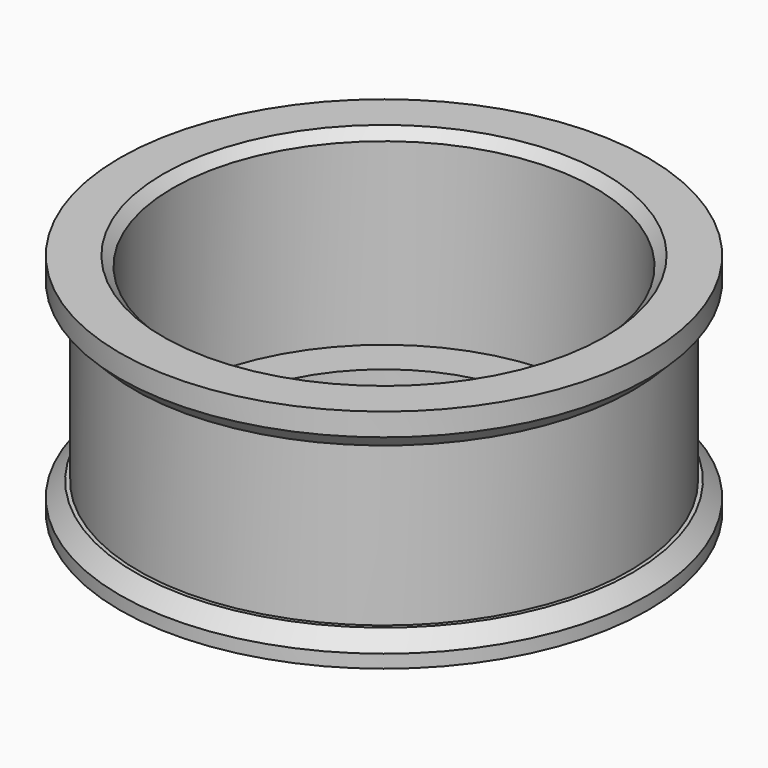
from build123d import *

# Parameters (mm, degrees)
TUBE_R          = 14
TUBE_R_2        = 11.2
TUBE_DEPTH      = 12
SKETCH001_W     = 4
SKETCH001_H     = 8.5
CHAMFER_SIZE    = 0.8
SKETCH_R        = 12.145698
SKETCH_R_2      = 9
PAD_DEPTH       = 2
CHAMFER001_SIZE = 0.5


with BuildPart() as part:
    # Tube → Tube (new body)
    with BuildSketch(Plane.XY):
        Circle(TUBE_R)
        Circle(TUBE_R_2, mode=Mode.SUBTRACT)
    extrude(amount=TUBE_DEPTH)

    # Sketch001 → Groove (revolve, cut)
    with BuildSketch(Plane.YZ):
        with Locations((-15, 5.75)):
            Rectangle(SKETCH001_W, SKETCH001_H)
    revolve(axis=Axis((0, 0, 0), (0, 0, 1)), mode=Mode.SUBTRACT)

    # Chamfer
    chamfer_edges = [part.edges().sort_by_distance(p)[0] for p in [
        (-14, 0, 10),
        (-14, 0, 1.5),
    ]]
    chamfer(chamfer_edges, length=CHAMFER_SIZE)

    # Sketch (on Face7 of Chamfer) → Pad (new body)
    with BuildSketch(Plane(origin=(0, 0, 0), x_dir=(1, 0, 0), z_dir=(0, 0, -1))):
        Circle(SKETCH_R)
        Circle(SKETCH_R_2, mode=Mode.SUBTRACT)
    extrude(amount=-PAD_DEPTH)

    # Chamfer001
    chamfer001_edges = [part.edges().sort_by_distance(p)[0] for p in [
        (-11.2, 0, 12),
    ]]
    chamfer(chamfer001_edges, length=CHAMFER001_SIZE)


solid = part.part
